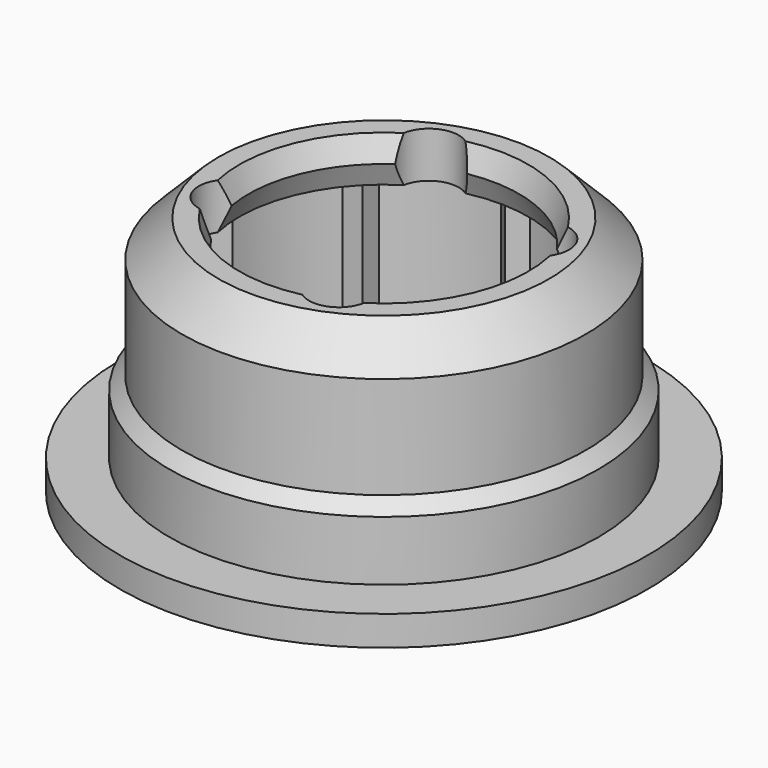
from build123d import *

# Parameters (mm, degrees)
PAD_DEPTH             = 4.6
POLARPATTERN004_COUNT = 8
SKETCH010_R           = 0.65
POCKET001_DEPTH       = 40.002163
POLARPATTERN005_COUNT = 4


with BuildPart() as part:
    # Sketch007 → Revolution005 (revolve)
    with BuildSketch(Plane.XZ):
        Polygon((-3.6, 4.6), (-3.6, 3.5), (-3.6, 2.5), (-3.6, 1), (-3.6, 0), (-4.4, 0), (-4.4, 0.35), (-5.75, 0.35), (-5.75, 1), (-4.675, 1), (-4.675, 2.3), (-4.4, 2.575), (-4.4, 4.8), (-3.6, 5.6), (-3.15, 5.6), (-2.95, 5.1), (-3.15, 4.6), align=None)
    revolve(axis=Axis((0, 0, 0), (0, 0, 1)))

    # Sketch008 → Pad (new body)
    with BuildSketch(Plane.XY):
        with BuildLine():
            ThreePointArc((-3.586301, 0.313761), (-3.6, 0), (-3.586301, -0.313761))
            Line((-3.3, 0), (-3.586301, -0.313761))
            Line((-3.586301, 0.313761), (-3.3, 0))
        make_face()
    pad = extrude(amount=PAD_DEPTH)

    # PolarPattern004: Pad ×8 about axis
    polarpattern004_axis = Axis((0, 0, 0), (0, 0, 1))
    for i in range(1, POLARPATTERN004_COUNT):
        add(pad.rotate(polarpattern004_axis, i * 360 / POLARPATTERN004_COUNT))

    # Sketch009 → Groove (revolve, cut)
    with BuildSketch(Plane.XZ):
        Polygon((-3.85, 0), (0, 3.85), (0, 0), align=None)
    revolve(axis=Axis((0, 0, 0), (0, 0, 1)), mode=Mode.SUBTRACT)

    # Sketch010 → Pocket001 (cut, through all)
    with BuildSketch(Plane.XY):
        with Locations((2.540669, 1.052379)):
            Circle(SKETCH010_R)
    pocket001 = extrude(amount=POCKET001_DEPTH, mode=Mode.SUBTRACT)

    # PolarPattern005: Pocket001 ×4 about axis
    polarpattern005_axis = Axis((0, 0, 0), (0, 0, 1))
    for i in range(1, POLARPATTERN005_COUNT):
        add(pocket001.rotate(polarpattern005_axis, i * 360 / POLARPATTERN005_COUNT), mode=Mode.SUBTRACT)


solid = part.part
